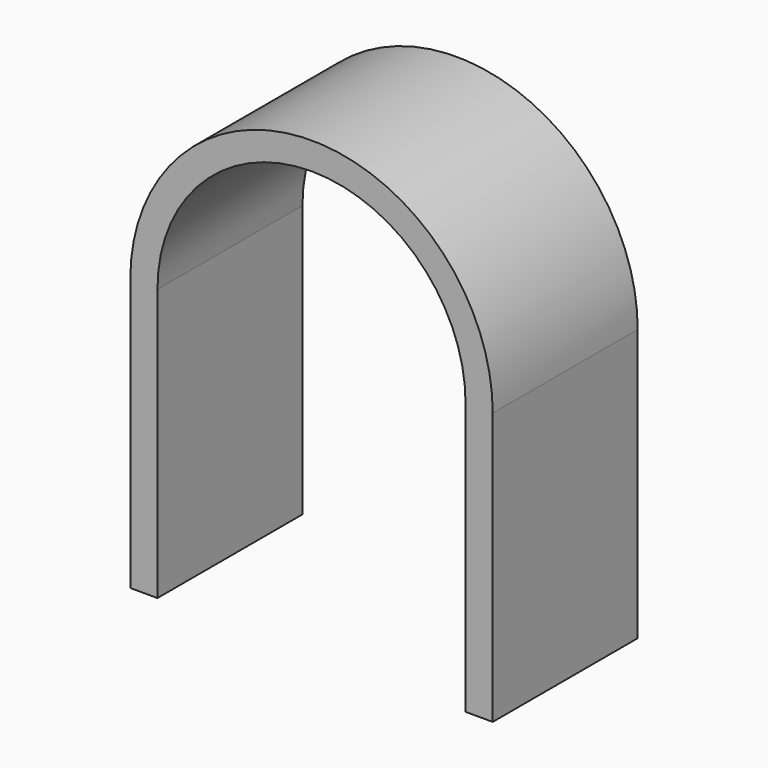
from build123d import *

# Parameters (mm, degrees)
F0_W     = 1.5
F0_H     = 5
F1_DEPTH = 10


with BuildPart() as f1:
    # F0 (on Front) → F1 (new body)
    with BuildSketch(Plane.XZ):
        with BuildLine():
            Line((10, -10), (10, 0))
            ThreePointArc((10, 0), (0, 10), (-10, 0))
            Line((-10, 0), (-10, -10))
            Line((-10, -10), (-8.5, -10))
            Line((-8.5, -10), (-8.5, 0))
            ThreePointArc((-8.5, 0), (0, 8.5), (8.5, 0))
            Line((8.5, 0), (8.5, -10))
            Line((8.5, -10), (10, -10))
        make_face()
        with Locations((9.25, -12.5)):
            Rectangle(F0_W, F0_H)
        with Locations((-9.25, -12.5)):
            Rectangle(F0_W, F0_H)
    extrude(amount=F1_DEPTH)


solid = f1.part
